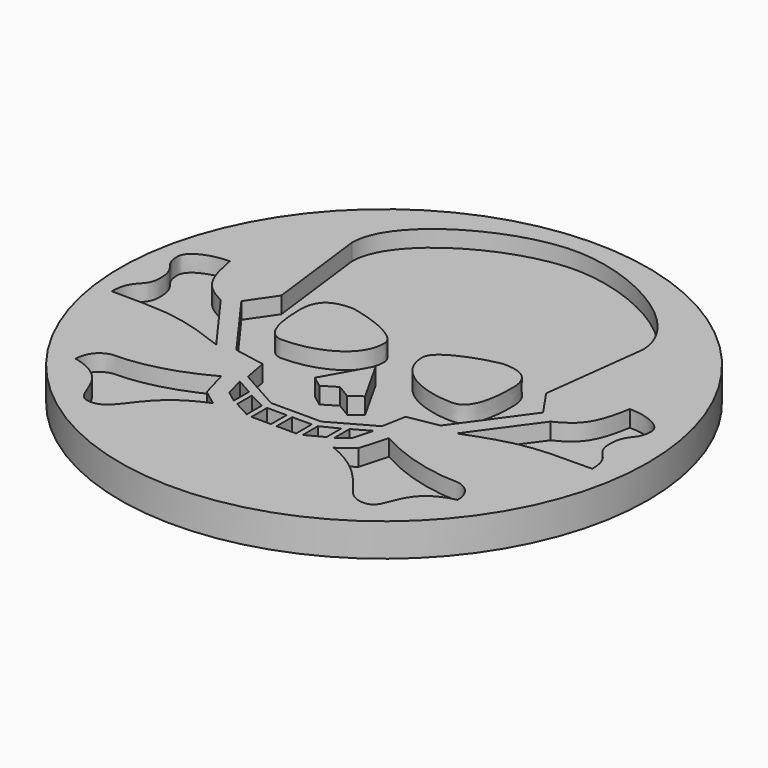
from build123d import *

# Parameters (mm, degrees)
SKETCH001_R  = 20
PAD_DEPTH    = 2.5
POCKET_DEPTH = 1.25


with BuildPart() as part:
    # Sketch001 (on DatumPlane) → Pad (new body)
    with BuildSketch(Plane.XY):
        Circle(SKETCH001_R)
    extrude(amount=-PAD_DEPTH)

    # Sketch002 → Pocket (cut)
    with BuildSketch(Plane.XY):
        with BuildLine():
            add(Edge.make_bspline(
                [(-18.5, -2.666667), (-18.5, -0.677), (-17.314667, -1.058), (-17.314667, 0.423667)],
                knots=[0, 0, 0, 0, 1, 1, 1, 1], degree=3))
            add(Edge.make_bspline(
                [(-17.314667, 0.423667), (-17.314667, 2.159333), (-18.246, 1.778333), (-18.246, 3.26)],
                knots=[0, 0, 0, 0, 1, 1, 1, 1], degree=3))
            add(Edge.make_bspline(
                [(-18.246, 3.26), (-18.246, 4.022), (-16.976, 4.699333), (-15.452, 4.699333)],
                knots=[0, 0, 0, 0, 1, 1, 1, 1], degree=3))
            add(Edge.make_bspline(
                [(-15.452, 4.699333), (-14.986333, 2.074667), (-14.436, 1.312667), (-12.785, 0.508333)],
                knots=[0, 0, 0, 0, 1, 1, 1, 1], degree=3))
            add(Edge.make_bspline(
                [(-12.785, 0.508333), (-9.398333, -4.148333)],
                knots=[0, 0, 27.202941, 27.202941], degree=1))
            add(Edge.make_bspline(
                [(-9.398333, -4.148333), (-13.208333, -2.666667), (-14.266667, -2.666667), (-18.5, -2.666667)],
                knots=[0, 0, 0, 0, 1, 1, 1, 1], degree=3))
        make_face()
        with BuildLine():
            add(Edge.make_bspline(
                [(-14.774667, -10.752333), (-14.774667, -9.694), (-14.012667, -8.974333), (-13.166, -8.974333)],
                knots=[0, 0, 0, 0, 1, 1, 1, 1], degree=3))
            add(Edge.make_bspline(
                [(-13.166, -8.974333), (-11.345667, -8.974333), (-8.890333, -8.381667), (-6.646667, -7.111667)],
                knots=[0, 0, 0, 0, 1, 1, 1, 1], degree=3))
            add(Edge.make_bspline(
                [(-6.646667, -7.111667), (-6.054, -9.228333)],
                knots=[0, 0, 10.384604, 10.384604], degree=1))
            add(Edge.make_bspline(
                [(-6.054, -9.228333), (-4.868667, -10.117333)],
                knots=[0, 0, 7, 7], degree=1))
            add(Edge.make_bspline(
                [(-4.868667, -10.117333), (-8.975, -11.768333), (-8.721, -14.52), (-10.668333, -14.52)],
                knots=[0, 0, 0, 0, 1, 1, 1, 1], degree=3))
            add(Edge.make_bspline(
                [(-10.668333, -14.52), (-12.319333, -14.52), (-11.134, -11.556667), (-14.774667, -10.752333)],
                knots=[0, 0, 0, 0, 1, 1, 1, 1], degree=3))
        make_face()
        with BuildLine():
            add(Edge.make_bspline(
                [(-11.726667, 1.143333), (-10.329667, 3.175333)],
                knots=[0, 0, 11.649893, 11.649893], degree=1))
            add(Edge.make_bspline(
                [(-10.329667, 3.175333), (-11.303333, 11.091667)],
                knots=[0, 0, 37.681826, 37.681826], degree=1))
            add(Edge.make_bspline(
                [(-11.303333, 11.091667), (-11.303333, 14.901667), (-4.953333, 18.5), (-0.296667, 18.5)],
                knots=[0, 0, 0, 0, 1, 1, 1, 1], degree=3))
            add(Edge.make_bspline(
                [(-0.296667, 18.5), (4.36, 18.5), (10.71, 14.901667), (10.71, 11.091667)],
                knots=[0, 0, 0, 0, 1, 1, 1, 1], degree=3))
            add(Edge.make_bspline(
                [(10.71, 11.091667), (9.736333, 3.175333)],
                knots=[0, 0, 37.681826, 37.681826], degree=1))
            add(Edge.make_bspline(
                [(9.736333, 3.175333), (11.133333, 1.143333)],
                knots=[0, 0, 11.649893, 11.649893], degree=1))
            add(Edge.make_bspline(
                [(11.133333, 1.143333), (7.450333, -3.936667)],
                knots=[0, 0, 29.643886, 29.643886], degree=1))
            add(Edge.make_bspline(
                [(7.450333, -3.936667), (5.122, -4.36)],
                knots=[0, 0, 11.18034, 11.18034], degree=1))
            add(Edge.make_bspline(
                [(5.122, -4.36), (4.783333, -6.180333)],
                knots=[0, 0, 8.747571, 8.747571], degree=1))
            add(Edge.make_bspline(
                [(4.783333, -6.180333), (1.608333, -7.958333)],
                knots=[0, 0, 17.191859, 17.191859], degree=1))
            add(Edge.make_bspline(
                [(1.608333, -7.958333), (-2.201667, -7.958333)],
                knots=[0, 0, 18, 18], degree=1))
            add(Edge.make_bspline(
                [(-2.201667, -7.958333), (-5.376667, -6.180333)],
                knots=[0, 0, 17.191859, 17.191859], degree=1))
            add(Edge.make_bspline(
                [(-5.376667, -6.180333), (-5.715333, -4.36)],
                knots=[0, 0, 8.747571, 8.747571], degree=1))
            add(Edge.make_bspline(
                [(-5.715333, -4.36), (-8.043667, -3.936667)],
                knots=[0, 0, 11.18034, 11.18034], degree=1))
            add(Edge.make_bspline(
                [(-8.043667, -3.936667), (-11.726667, 1.143333)],
                knots=[0, 0, 29.643886, 29.643886], degree=1))
        make_face()
        with BuildLine():
            add(Edge.make_bspline(
                [(-8.34, 2.455667), (-8.34, 0.085), (-7.789667, -1.227333), (-6.773667, -1.227333)],
                knots=[0, 0, 0, 0, 1, 1, 1, 1], degree=3))
            add(Edge.make_bspline(
                [(-6.773667, -1.227333), (-4.403, -1.227333), (-1.736, -0.084333), (-1.736, 2.201667)],
                knots=[0, 0, 0, 0, 1, 1, 1, 1], degree=3))
            add(Edge.make_bspline(
                [(-1.736, 2.201667), (-1.736, 3.514), (-5.503667, 4.53), (-6.096333, 4.53)],
                knots=[0, 0, 0, 0, 1, 1, 1, 1], degree=3))
            add(Edge.make_bspline(
                [(-6.096333, 4.53), (-7.662667, 4.53), (-8.34, 3.852667), (-8.34, 2.455667)],
                knots=[0, 0, 0, 0, 1, 1, 1, 1], degree=3))
        make_face(mode=Mode.SUBTRACT)
        with BuildLine():
            add(Edge.make_bspline(
                [(-2.201667, -3.809667), (-1.355, -4.444667)],
                knots=[0, 0, 5, 5], degree=1))
            add(Edge.make_bspline(
                [(-1.355, -4.444667), (-0.296667, -3.809667)],
                knots=[0, 0, 5.830952, 5.830952], degree=1))
            add(Edge.make_bspline(
                [(-0.296667, -3.809667), (0.761667, -4.444667)],
                knots=[0, 0, 5.830952, 5.830952], degree=1))
            add(Edge.make_bspline(
                [(0.761667, -4.444667), (1.608333, -3.809667)],
                knots=[0, 0, 5, 5], degree=1))
            add(Edge.make_bspline(
                [(1.608333, -3.809667), (-0.296667, -0.423)],
                knots=[0, 0, 18.35756, 18.35756], degree=1))
            add(Edge.make_bspline(
                [(-0.296667, -0.423), (-2.201667, -3.809667)],
                knots=[0, 0, 18.35756, 18.35756], degree=1))
        make_face(mode=Mode.SUBTRACT)
        with BuildLine():
            add(Edge.make_bspline(
                [(1.142667, 2.201667), (1.142667, -0.084333), (3.809667, -1.227333), (6.180333, -1.227333)],
                knots=[0, 0, 0, 0, 1, 1, 1, 1], degree=3))
            add(Edge.make_bspline(
                [(6.180333, -1.227333), (7.196333, -1.227333), (7.746667, 0.085), (7.746667, 2.455667)],
                knots=[0, 0, 0, 0, 1, 1, 1, 1], degree=3))
            add(Edge.make_bspline(
                [(7.746667, 2.455667), (7.746667, 3.852667), (7.069333, 4.53), (5.503, 4.53)],
                knots=[0, 0, 0, 0, 1, 1, 1, 1], degree=3))
            add(Edge.make_bspline(
                [(5.503, 4.53), (4.910333, 4.53), (1.142667, 3.514), (1.142667, 2.201667)],
                knots=[0, 0, 0, 0, 1, 1, 1, 1], degree=3))
        make_face(mode=Mode.SUBTRACT)
        with BuildLine():
            add(Edge.make_bspline(
                [(-5.376667, -6.942333), (-4.106667, -7.662)],
                knots=[0, 0, 6.896376, 6.896376], degree=1))
            add(Edge.make_bspline(
                [(-4.106667, -7.662), (-4.106667, -9.101333)],
                knots=[0, 0, 6.8, 6.8], degree=1))
            add(Edge.make_bspline(
                [(-4.106667, -9.101333), (-4.953333, -8.466333)],
                knots=[0, 0, 5, 5], degree=1))
            add(Edge.make_bspline(
                [(-4.953333, -8.466333), (-5.376667, -6.942333)],
                knots=[0, 0, 7.472617, 7.472617], degree=1))
        make_face()
        with BuildLine():
            add(Edge.make_bspline(
                [(-3.683333, -9.313), (-3.683333, -7.916)],
                knots=[0, 0, 6.6, 6.6], degree=1))
            add(Edge.make_bspline(
                [(-3.683333, -7.916), (-2.413333, -8.551)],
                knots=[0, 0, 6.708204, 6.708204], degree=1))
            add(Edge.make_bspline(
                [(-2.413333, -8.551), (-2.413333, -9.990333)],
                knots=[0, 0, 6.8, 6.8], degree=1))
            add(Edge.make_bspline(
                [(-2.413333, -9.990333), (-3.683333, -9.313)],
                knots=[0, 0, 6.8, 6.8], degree=1))
        make_face()
        with BuildLine():
            add(Edge.make_bspline(
                [(-1.99, -10.075), (-1.99, -8.593333)],
                knots=[0, 0, 7, 7], degree=1))
            add(Edge.make_bspline(
                [(-1.99, -8.593333), (-0.508333, -8.593333)],
                knots=[0, 0, 7, 7], degree=1))
            add(Edge.make_bspline(
                [(-0.508333, -8.593333), (-0.508333, -10.075)],
                knots=[0, 0, 7, 7], degree=1))
            add(Edge.make_bspline(
                [(-0.508333, -10.075), (-1.99, -10.075)],
                knots=[0, 0, 7, 7], degree=1))
        make_face()
        with BuildLine():
            add(Edge.make_bspline(
                [(-0.085, -10.075), (-0.085, -8.593333)],
                knots=[0, 0, 7, 7], degree=1))
            add(Edge.make_bspline(
                [(-0.085, -8.593333), (1.396667, -8.593333)],
                knots=[0, 0, 7, 7], degree=1))
            add(Edge.make_bspline(
                [(1.396667, -8.593333), (1.396667, -10.075)],
                knots=[0, 0, 7, 7], degree=1))
            add(Edge.make_bspline(
                [(1.396667, -10.075), (-0.085, -10.075)],
                knots=[0, 0, 7, 7], degree=1))
        make_face()
        with BuildLine():
            add(Edge.make_bspline(
                [(1.82, -9.990333), (1.82, -8.551)],
                knots=[0, 0, 6.8, 6.8], degree=1))
            add(Edge.make_bspline(
                [(1.82, -8.551), (3.09, -7.916)],
                knots=[0, 0, 6.708204, 6.708204], degree=1))
            add(Edge.make_bspline(
                [(3.09, -7.916), (3.09, -9.313)],
                knots=[0, 0, 6.6, 6.6], degree=1))
            add(Edge.make_bspline(
                [(3.09, -9.313), (1.82, -9.990333)],
                knots=[0, 0, 6.8, 6.8], degree=1))
        make_face()
        with BuildLine():
            add(Edge.make_bspline(
                [(3.513333, -9.101333), (3.513333, -7.662)],
                knots=[0, 0, 6.8, 6.8], degree=1))
            add(Edge.make_bspline(
                [(3.513333, -7.662), (4.783333, -6.942333)],
                knots=[0, 0, 6.896376, 6.896376], degree=1))
            add(Edge.make_bspline(
                [(4.783333, -6.942333), (4.36, -8.466333)],
                knots=[0, 0, 7.472617, 7.472617], degree=1))
            add(Edge.make_bspline(
                [(4.36, -8.466333), (3.513333, -9.101333)],
                knots=[0, 0, 5, 5], degree=1))
        make_face()
        with BuildLine():
            add(Edge.make_bspline(
                [(4.275333, -10.117333), (5.460667, -9.228333)],
                knots=[0, 0, 7, 7], degree=1))
            add(Edge.make_bspline(
                [(5.460667, -9.228333), (6.053333, -7.111667)],
                knots=[0, 0, 10.384604, 10.384604], degree=1))
            add(Edge.make_bspline(
                [(6.053333, -7.111667), (8.297, -8.381667), (10.752333, -8.974333), (12.572667, -8.974333)],
                knots=[0, 0, 0, 0, 1, 1, 1, 1], degree=3))
            add(Edge.make_bspline(
                [(12.572667, -8.974333), (13.419333, -8.974333), (14.181333, -9.694), (14.181333, -10.752333)],
                knots=[0, 0, 0, 0, 1, 1, 1, 1], degree=3))
            add(Edge.make_bspline(
                [(14.181333, -10.752333), (10.540667, -11.556667), (11.726, -14.52), (10.075, -14.52)],
                knots=[0, 0, 0, 0, 1, 1, 1, 1], degree=3))
            add(Edge.make_bspline(
                [(10.075, -14.52), (8.127667, -14.52), (8.381667, -11.768333), (4.275333, -10.117333)],
                knots=[0, 0, 0, 0, 1, 1, 1, 1], degree=3))
        make_face()
        with BuildLine():
            add(Edge.make_bspline(
                [(8.805, -4.148333), (12.191667, 0.508333)],
                knots=[0, 0, 27.202941, 27.202941], degree=1))
            add(Edge.make_bspline(
                [(12.191667, 0.508333), (13.842667, 1.312667), (14.393, 2.074667), (14.858667, 4.699333)],
                knots=[0, 0, 0, 0, 1, 1, 1, 1], degree=3))
            add(Edge.make_bspline(
                [(14.858667, 4.699333), (16.382667, 4.699333), (17.652667, 4.022), (17.652667, 3.26)],
                knots=[0, 0, 0, 0, 1, 1, 1, 1], degree=3))
            add(Edge.make_bspline(
                [(17.652667, 3.26), (17.652667, 1.778333), (16.721333, 2.159333), (16.721333, 0.423667)],
                knots=[0, 0, 0, 0, 1, 1, 1, 1], degree=3))
            add(Edge.make_bspline(
                [(16.721333, 0.423667), (16.721333, -1.058), (17.906667, -0.677), (17.906667, -2.666667)],
                knots=[0, 0, 0, 0, 1, 1, 1, 1], degree=3))
            add(Edge.make_bspline(
                [(17.906667, -2.666667), (13.673333, -2.666667), (12.615, -2.666667), (8.805, -4.148333)],
                knots=[0, 0, 0, 0, 1, 1, 1, 1], degree=3))
        make_face()
    extrude(amount=-POCKET_DEPTH, mode=Mode.SUBTRACT)


solid = part.part
